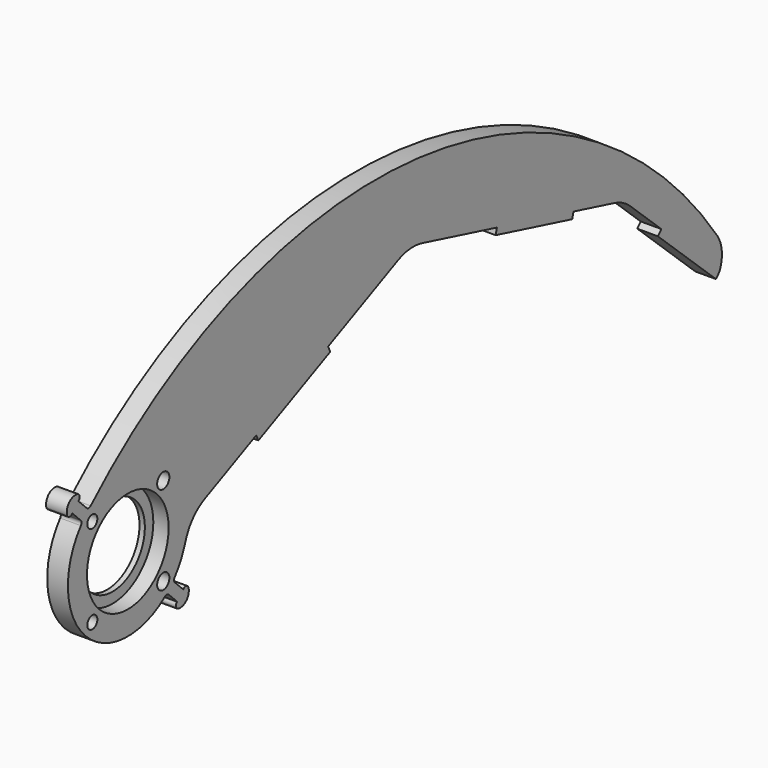
from build123d import *

# Parameters (mm, degrees)
F0_R     = 1.4
F0_R_2   = 1.7
F0_R_3   = 9
F1_DEPTH = 1.2
F2_R     = 1.4
F2_R_2   = 1.7
F2_R_3   = 11.35
F3_DEPTH = 3.4
F4_R     = 0.8


with BuildPart() as f1:
    # F0 (on Right) → F1 (new body)
    with BuildSketch(Plane.YZ):
        with BuildLine():
            Line((36.315416, 6.963249), (56.281398, 16.202273))
            Line((56.281398, 16.202273), (55.69346, 17.472835))
            Line((55.69346, 17.472835), (75.164664, 26.482906))
            ThreePointArc((75.164664, 26.482906), (78.467758, 27.367196), (81.875669, 27.086954))
            Line((81.875669, 27.086954), (102.642848, 21.698686))
            Line((102.642848, 21.698686), (102.291245, 20.343557))
            Line((102.291245, 20.343557), (123.586134, 14.818369))
            Line((123.586134, 14.818369), (123.937737, 16.173498))
            Line((123.937737, 16.173498), (135.389363, 13.202251))
            ThreePointArc((135.389363, 13.202251), (137.676185, 12.296386), (139.672705, 10.859704))
            Line((139.672705, 10.859704), (148.352908, 2.820916))
            Line((148.352908, 2.820916), (147.401638, 1.793743))
            Line((147.401638, 1.793743), (163.542923, -13.154799))
            Line((163.542923, -13.154799), (164.494194, -12.127626))
            ThreePointArc((164.494194, -12.127626), (165.178749, -8.371866), (163.889187, -4.778626))
            ThreePointArc((163.889187, -4.778626), (80.505559, 44.237166), (-10.894182, 12.591239))
            Line((-10.894182, 12.591239), (-13.722609, 15.419666))
            Line((-13.722609, 15.419666), (-12.874081, 16.268194))
            ThreePointArc((-12.874081, 16.268194), (-16.268194, 16.268194), (-16.268194, 12.874081))
            Line((-16.268194, 12.874081), (-15.419666, 13.722609))
            Line((-15.419666, 13.722609), (-12.591239, 10.894182))
            ThreePointArc((-12.591239, 10.894182), (-11.773328, -11.773328), (10.894182, -12.591239))
            Line((10.894182, -12.591239), (13.722609, -15.419666))
            Line((13.722609, -15.419666), (12.874081, -16.268194))
            ThreePointArc((12.874081, -16.268194), (16.268194, -16.268194), (16.268194, -12.874081))
            Line((16.268194, -12.874081), (15.419666, -13.722609))
            Line((15.419666, -13.722609), (12.591239, -10.894182))
            ThreePointArc((12.591239, -10.894182), (14.365147, -8.418138), (15.65831, -5.660373))
            Line((15.65831, -5.660373), (16.240046, -4.051116))
            ThreePointArc((16.240046, -4.051116), (18.274186, -0.692085), (21.44488, 1.624707))
            Line((21.44488, 1.624707), (35.727478, 8.233812))
            Line((35.727478, 8.233812), (36.315416, 6.963249))
        make_face()
        with Locations((-9.86414, -9.86414)):
            Circle(F0_R, mode=Mode.SUBTRACT)
        with Locations((9.86414, -9.86414)):
            Circle(F0_R_2, mode=Mode.SUBTRACT)
        Circle(F0_R_3, mode=Mode.SUBTRACT)
        with Locations((-9.86414, 9.86414)):
            Circle(F0_R, mode=Mode.SUBTRACT)
        with Locations((9.86414, 9.86414)):
            Circle(F0_R_2, mode=Mode.SUBTRACT)
    extrude(amount=F1_DEPTH)

    # F2 (on face) → F3 (join)
    with BuildSketch(Plane.YZ.offset(1.2)):
        with BuildLine():
            Line((102.291245, 20.343557), (123.586134, 14.818369))
            Line((123.586134, 14.818369), (123.937737, 16.173498))
            Line((123.937737, 16.173498), (135.389363, 13.202251))
            ThreePointArc((135.389363, 13.202251), (137.676185, 12.296386), (139.672705, 10.859704))
            Line((139.672705, 10.859704), (148.352908, 2.820916))
            Line((148.352908, 2.820916), (147.401638, 1.793743))
            Line((147.401638, 1.793743), (163.542923, -13.154799))
            Line((163.542923, -13.154799), (164.494194, -12.127626))
            ThreePointArc((164.494194, -12.127626), (165.178749, -8.371866), (163.889187, -4.778626))
            ThreePointArc((163.889187, -4.778626), (80.505559, 44.237166), (-10.894182, 12.591239))
            Line((-10.894182, 12.591239), (-13.722609, 15.419666))
            Line((-13.722609, 15.419666), (-12.874081, 16.268194))
            ThreePointArc((-12.874081, 16.268194), (-16.268194, 16.268194), (-16.268194, 12.874081))
            Line((-16.268194, 12.874081), (-15.419666, 13.722609))
            Line((-15.419666, 13.722609), (-12.591239, 10.894182))
            ThreePointArc((-12.591239, 10.894182), (-11.773328, -11.773328), (10.894182, -12.591239))
            Line((10.894182, -12.591239), (13.722609, -15.419666))
            Line((13.722609, -15.419666), (12.874081, -16.268194))
            ThreePointArc((12.874081, -16.268194), (16.268194, -16.268194), (16.268194, -12.874081))
            Line((16.268194, -12.874081), (15.419666, -13.722609))
            Line((15.419666, -13.722609), (12.591239, -10.894182))
            ThreePointArc((12.591239, -10.894182), (14.365147, -8.418138), (15.65831, -5.660373))
            Line((15.65831, -5.660373), (16.240046, -4.051116))
            ThreePointArc((16.240046, -4.051116), (18.274186, -0.692085), (21.44488, 1.624707))
            Line((21.44488, 1.624707), (35.727478, 8.233812))
            Line((35.727478, 8.233812), (36.315416, 6.963249))
            Line((36.315416, 6.963249), (56.281398, 16.202273))
            Line((56.281398, 16.202273), (55.69346, 17.472835))
            Line((55.69346, 17.472835), (75.164664, 26.482906))
            ThreePointArc((75.164664, 26.482906), (78.467758, 27.367196), (81.875669, 27.086954))
            Line((81.875669, 27.086954), (102.642848, 21.698686))
            Line((102.642848, 21.698686), (102.291245, 20.343557))
        make_face()
        with Locations((-9.86414, -9.86414)):
            Circle(F2_R, mode=Mode.SUBTRACT)
        with Locations((9.86414, -9.86414)):
            Circle(F2_R_2, mode=Mode.SUBTRACT)
        Circle(F2_R_3, mode=Mode.SUBTRACT)
        with Locations((-9.86414, 9.86414)):
            Circle(F2_R, mode=Mode.SUBTRACT)
        with Locations((9.86414, 9.86414)):
            Circle(F2_R_2, mode=Mode.SUBTRACT)
    extrude(amount=F3_DEPTH)

    # F4
    f4_edges = [f1.edges().sort_by_distance(p)[0] for p in [
        (2.3, 12.874081, -16.268194),
        (2.3, -16.268194, 12.874081),
        (2.3, -12.874081, 16.268194),
        (2.3, 10.894182, -12.591239),
        (2.3, 12.591239, -10.894182),
        (2.3, 16.268194, -12.874081),
        (2.3, -10.894182, 12.591239),
        (2.3, -12.591239, 10.894182),
    ]]
    fillet(f4_edges, radius=F4_R)


solid = f1.part
